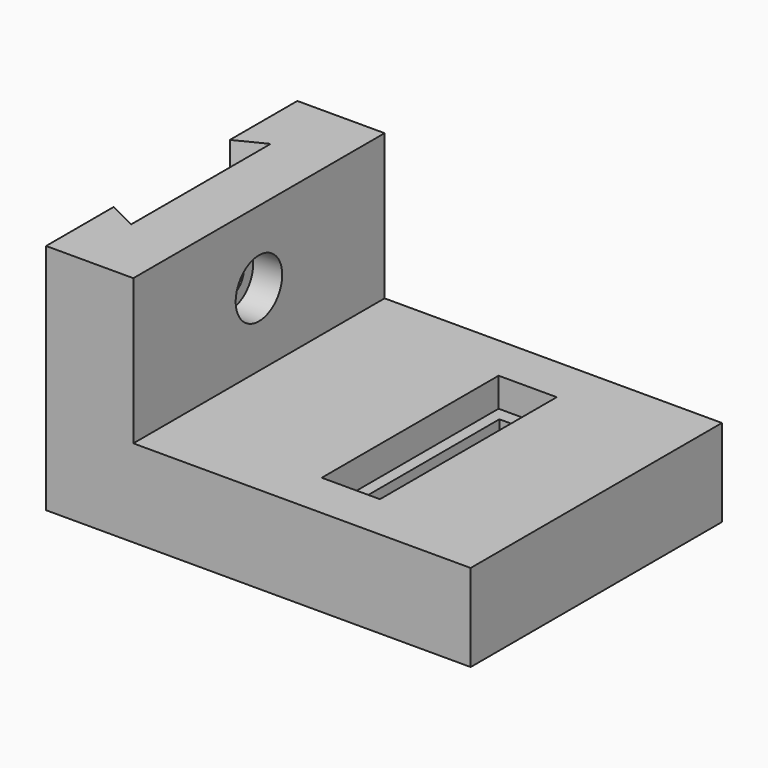
from build123d import *

# Parameters (mm, degrees)
SKETCH_W        = 58
SKETCH_H        = 54
SKETCH_W_2      = 10
SKETCH_H_2      = 38
PAD_DEPTH       = 15
PAD001_DEPTH    = 40
SKETCH002_W     = 10
SKETCH002_H     = 38
SKETCH002_W_2   = 6
SKETCH002_H_2   = 33.513506
PAD002_DEPTH    = 10
SKETCH004_R     = 5
POCKET_DEPTH    = 5
SKETCH005_R     = 3
POCKET001_DEPTH = 10


with BuildPart() as part:
    # Sketch → Pad (new body)
    with BuildSketch(Plane.XY):
        with Locations((29, 27)):
            Rectangle(SKETCH_W, SKETCH_H)
        with Locations((31, 27)):
            Rectangle(SKETCH_W_2, SKETCH_H_2, mode=Mode.SUBTRACT)
    extrude(amount=PAD_DEPTH)

    # Sketch003 → Pad001 (new body)
    with BuildSketch(Plane.XY):
        Polygon((-15, 0), (-15, 14.5), (-10, 12), (-10, 42), (-15, 39.5), (-15, 54), (0, 54), (0, 0), align=None)
    extrude(amount=PAD001_DEPTH)

    # Sketch002 → Pad002 (new body)
    with BuildSketch(Plane.XY):
        with Locations((31, 27)):
            Rectangle(SKETCH002_W, SKETCH002_H)
        with Locations((31, 26.915923)):
            Rectangle(SKETCH002_W_2, SKETCH002_H_2, mode=Mode.SUBTRACT)
    extrude(amount=PAD002_DEPTH)

    # Sketch004 → Pocket (cut)
    with BuildSketch(Plane.YZ):
        with Locations((27, 27.5)):
            Circle(SKETCH004_R)
    extrude(amount=-POCKET_DEPTH, mode=Mode.SUBTRACT)

    # Sketch005 → Pocket001 (cut)
    with BuildSketch(Plane.YZ):
        with Locations((27, 27.5)):
            Circle(SKETCH005_R)
    extrude(amount=-POCKET001_DEPTH, mode=Mode.SUBTRACT)


solid = part.part
